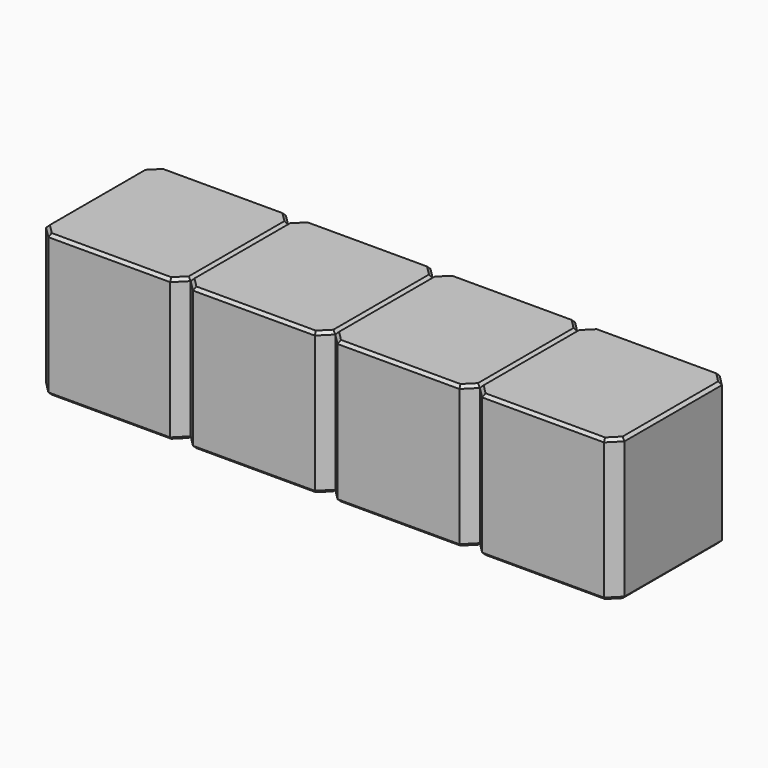
from build123d import *

# Parameters (mm, degrees)
SKETCH229_W      = 2.54
SKETCH229_H      = 2.54
PAD084_DEPTH     = 2.5
CHAMFER042_SIZE  = 0.2
CHAMFER044_SIZE  = 0.05
ARRAY023_X_COUNT = 4
ARRAY023_X_PITCH = 2.54


with BuildPart() as array023:
    # Sketch229 → Pad084 (new body)
    with BuildSketch(Plane.XY):
        Rectangle(SKETCH229_W, SKETCH229_H)
    extrude(amount=PAD084_DEPTH)

    # Chamfer042
    chamfer042_edges = [array023.edges().sort_by_distance(p)[0] for p in [
        (1.27, -1.27, 1.25),
        (-1.27, -1.27, 1.25),
        (1.27, 1.27, 1.25),
        (-1.27, 1.27, 1.25),
    ]]
    chamfer(chamfer042_edges, length=CHAMFER042_SIZE)

    # Chamfer044
    chamfer044_edges = [array023.edges().sort_by_distance(p)[0] for p in [
        (0, -1.27, 2.5),
        (-1.17, -1.17, 2.5),
        (1.17, -1.17, 2.5),
        (-1.27, 0, 2.5),
        (1.27, 0, 2.5),
        (-1.17, 1.17, 2.5),
        (1.17, 1.17, 2.5),
        (0, 1.27, 2.5),
        (0, -1.27, 0),
        (-1.17, -1.17, 0),
        (1.17, -1.17, 0),
        (-1.27, 0, 0),
        (1.27, 0, 0),
        (-1.17, 1.17, 0),
        (1.17, 1.17, 0),
        (0, 1.27, 0),
    ]]
    chamfer(chamfer044_edges, length=CHAMFER044_SIZE)


with BuildPart() as array023_copy1:
    # Array023 X: instance of Array023
    add(array023.part.moved(Location(Vector(1, 0, 0) * (1 * ARRAY023_X_PITCH))))


with BuildPart() as array023_copy2:
    # Array023 X: instance of Array023
    add(array023.part.moved(Location(Vector(1, 0, 0) * (2 * ARRAY023_X_PITCH))))


with BuildPart() as array023_copy3:
    # Array023 X: instance of Array023
    add(array023.part.moved(Location(Vector(1, 0, 0) * (3 * ARRAY023_X_PITCH))))


solid = Compound([array023.part, array023_copy1.part, array023_copy2.part, array023_copy3.part])
